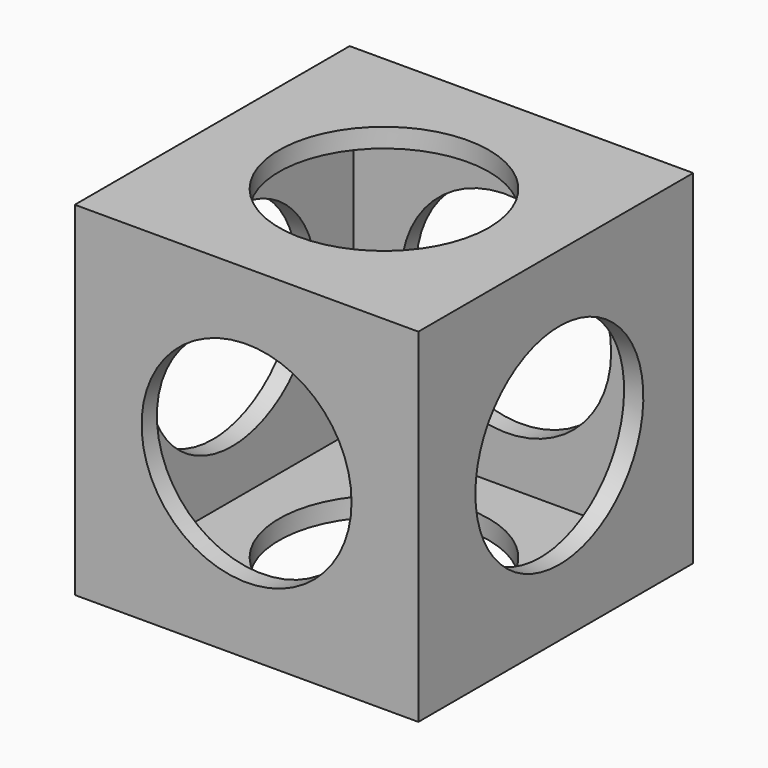
from build123d import *

# Parameters (mm, degrees)
CYLINDER002_R               = 27.5
CYLINDER002_DEPTH           = 120
CYLINDER001_R               = 27.5
CYLINDER001_DEPTH           = 120
CYLINDER001_ROLL_ANGLE      = 89.363406
CYLINDER001_PITCH_ANGLE     = 89.363406
CYLINDER001_PLACEMENT_ANGLE = 90
CYLINDER_R                  = 27.5
CYLINDER_DEPTH              = 120
BOX001_W                    = 80
BOX001_H                    = 80
BOX001_DEPTH                = 80
BOX_W                       = 90
BOX_H                       = 90
BOX_DEPTH                   = 90


with BuildPart() as cylinder002:
    # Cylinder002 → Cylinder002 (new body)
    with BuildSketch(Plane.XZ.offset(-60)):
        Circle(CYLINDER002_R)
    extrude(amount=CYLINDER002_DEPTH)


with BuildPart() as cylinder001:
    # Cylinder001 → Cylinder001 (new body)
    with BuildSketch(Plane.XY):
        Circle(CYLINDER001_R)
    extrude(amount=CYLINDER001_DEPTH)


with BuildPart() as cylinder001_1:
    # Cylinder001 roll: moved
    add(cylinder001.part.rotate(Axis((0, 0, 0), (1, 0, 0)), CYLINDER001_ROLL_ANGLE))


with BuildPart() as cylinder001_2:
    # Cylinder001 pitch: moved
    add(cylinder001_1.part.rotate(Axis((0, 0, 0), (0, 1, 0)), CYLINDER001_PITCH_ANGLE))


with BuildPart() as cylinder001_3:
    # Cylinder001 placement: moved
    add(cylinder001_2.part.moved(Location((-60, 0, 0))).rotate(Axis((-60, 0, 0), (0, 0, 1)), CYLINDER001_PLACEMENT_ANGLE))


with BuildPart() as cylinder:
    # Cylinder → Cylinder (new body)
    with BuildSketch(Plane.XY.offset(-60)):
        Circle(CYLINDER_R)
    extrude(amount=CYLINDER_DEPTH)


with BuildPart() as cube001:
    # Box001 → Box001 (new body)
    with BuildSketch(Plane(origin=(-40, -40, -40), x_dir=(1, 0, 0), z_dir=(0, 0, 1))):
        with Locations((40, 40)):
            Rectangle(BOX001_W, BOX001_H)
    extrude(amount=BOX001_DEPTH)


with BuildPart() as cut003:
    # Box → Box (new body)
    with BuildSketch(Plane(origin=(-45, -45, -45), x_dir=(1, 0, 0), z_dir=(0, 0, 1))):
        with Locations((45, 45)):
            Rectangle(BOX_W, BOX_H)
    extrude(amount=BOX_DEPTH)

    # Cut: cut Cube001
    add(cube001.part, mode=Mode.SUBTRACT)

    # Cut001: cut Cylinder
    add(cylinder.part, mode=Mode.SUBTRACT)

    # Cut002: cut Cylinder001
    add(cylinder001_3.part, mode=Mode.SUBTRACT)

    # Cut003: cut Cylinder002
    add(cylinder002.part, mode=Mode.SUBTRACT)


solid = cut003.part
